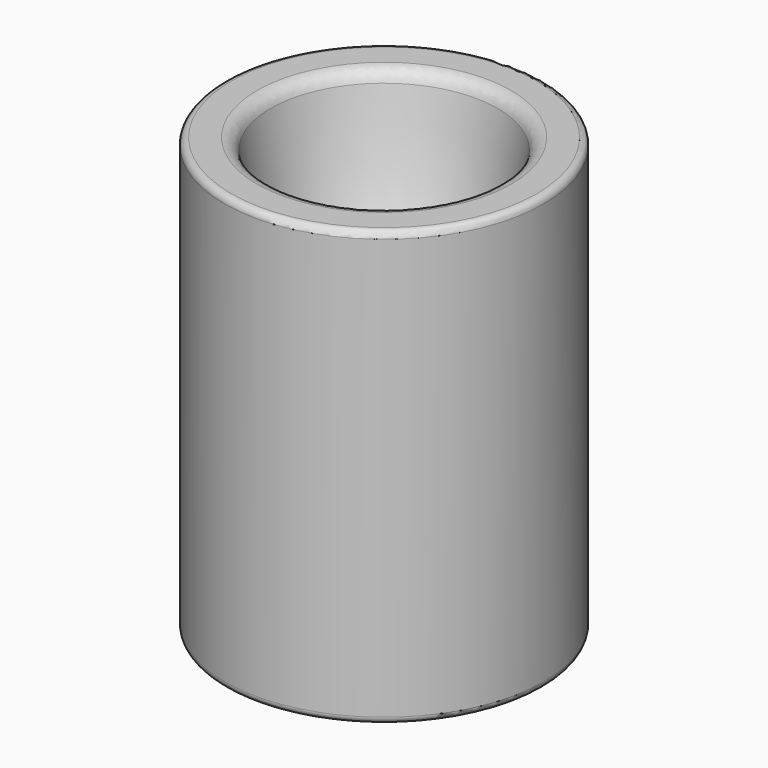
from build123d import *

# Parameters (mm, degrees)
F2_R     = 0.5
F3_R     = 1
F4_W     = 8
F4_H     = 4
F5_DEPTH = 4


with BuildPart() as f1:
    # F0 (on Front) → F1 (revolve)
    with BuildSketch(Plane.XZ):
        with BuildLine():
            Line((11.75, 13), (8.5, 13))
            add(Edge.make_bspline(
                [(4.95, -12), (4.7483998648, -7.495611577), (4.0750163359, 2.4314636076), (7.0308667384, 3.2642442145), (8.5, 13)],
                knots=[0, 0, 0, 0, 0.4855036305, 1, 1, 1, 1], degree=3))
            Line((4.95, -12), (5.45, -12))
            Line((5.45, -12), (5.45, -19))
            Line((5.45, -19), (11.75, -19))
            Line((11.75, -19), (11.75, 13))
        make_face()
    revolve(axis=Axis((0, 0, 6.5), (0, 0, 1)))

    # F2
    f2_edges = [f1.edges().sort_by_distance(p)[0] for p in [
        (-11.75, 0, 13),
        (-11.75, 0, -19),
        (-5.45, 0, -19),
    ]]
    fillet(f2_edges, radius=F2_R)

    # F3
    f3_edges = [f1.edges().sort_by_distance(p)[0] for p in [
        (-8.5, 0, 13),
    ]]
    fillet(f3_edges, radius=F3_R)

    # F4 (on face) → F5 (cut)
    with BuildSketch(Plane(origin=(0, 0, -19), x_dir=(1, 0, 0), z_dir=(0, 0, -1))):
        with Locations((-8.7, 0)):
            Rectangle(F4_W, F4_H)
    extrude(amount=-F5_DEPTH, mode=Mode.SUBTRACT)


solid = f1.part
